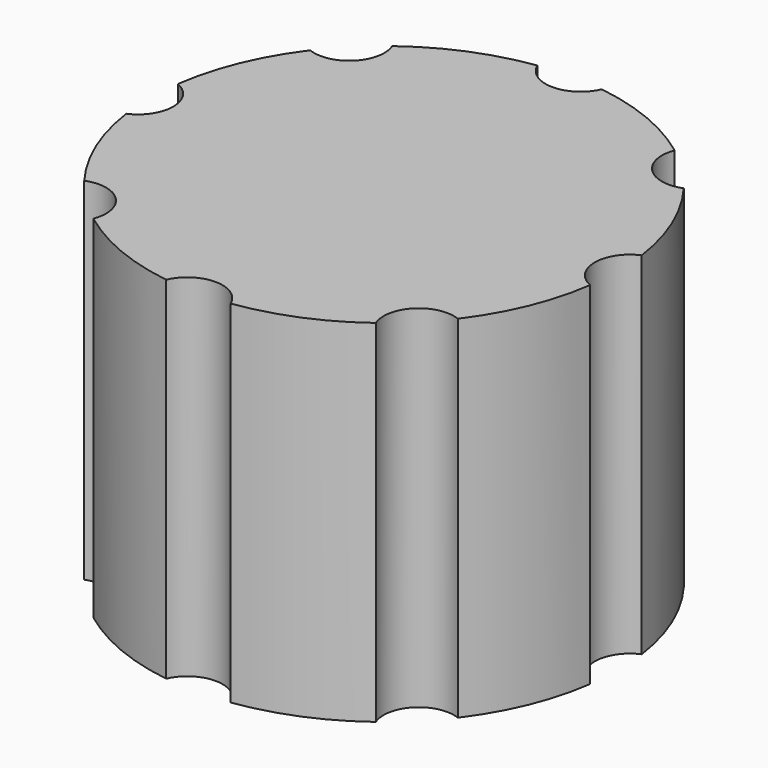
from build123d import *

# Parameters (mm, degrees)
CYLINDER001_R     = 1.5
CYLINDER001_DEPTH = 30
ARRAY_COUNT       = 8
CYLINDER_R        = 10
CYLINDER_DEPTH    = 15


with BuildPart() as array:
    # Cylinder001 → Cylinder001 (new body)
    with BuildSketch(Plane(origin=(10.5, 0, -7), x_dir=(1, 0, 0), z_dir=(0, 0, 1))):
        Circle(CYLINDER001_R)
    extrude(amount=CYLINDER001_DEPTH)

    # Array: Array ×8 about axis
    array_axis = Axis((0, 0, 0), (0, 0, 1))


with BuildPart() as array_1:
    add(array.part)
    for i in range(1, ARRAY_COUNT):
        add(array.part.rotate(array_axis, i * 360 / ARRAY_COUNT))


with BuildPart() as cut:
    # Cylinder → Cylinder (new body)
    with BuildSketch(Plane.XY):
        Circle(CYLINDER_R)
    extrude(amount=CYLINDER_DEPTH)

    # Cut: cut Array
    add(array_1.part, mode=Mode.SUBTRACT)


solid = cut.part
